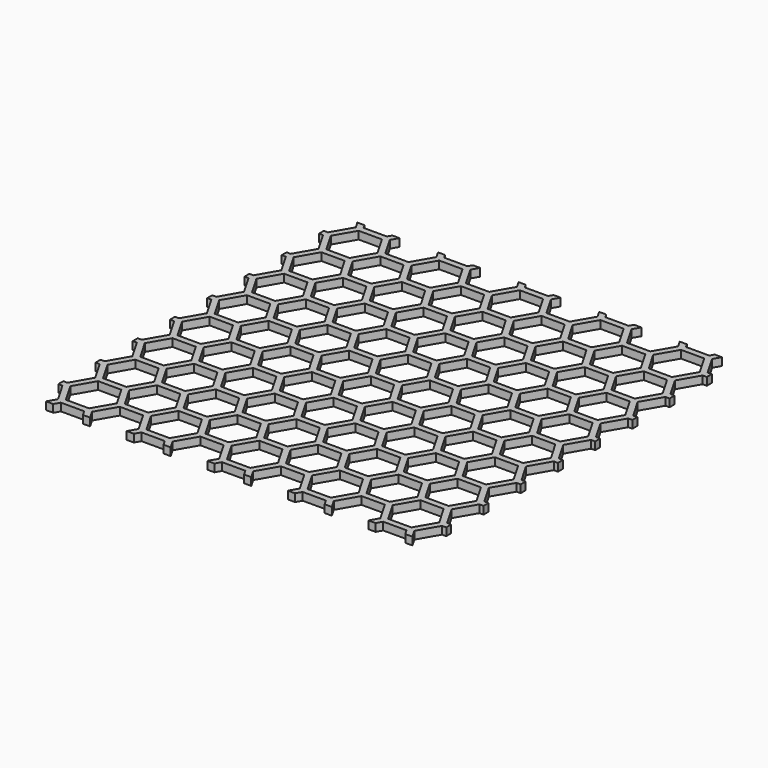
from build123d import *

# Parameters (mm, degrees)
F1_DEPTH = 2.5
F3_DEPTH = 25


with BuildPart() as f1:
    # F0 (on Top) → F1 (new body)
    with BuildSketch(Plane.XY):
        with BuildLine():
            ThreePointArc((62.5, 60), (61.767767, 61.767767), (60, 62.5))
            Line((60, 62.5), (-60, 62.5))
            ThreePointArc((-60, 62.5), (-61.767767, 61.767767), (-62.5, 60))
            Line((-62.5, 60), (-62.5, -60))
            ThreePointArc((-62.5, -60), (-61.767767, -61.767767), (-60, -62.5))
            Line((-60, -62.5), (60, -62.5))
            ThreePointArc((60, -62.5), (61.767767, -61.767767), (62.5, -60))
            Line((62.5, -60), (62.5, 60))
        make_face()
    extrude(amount=F1_DEPTH)

    # F2 (on Top) → F3 (cut)
    with BuildSketch(Plane.XY):
        Polygon((-22.214101, -58.71811), (-18.464101, -52.222919), (-22.214101, -45.727729), (-29.714101, -45.727729), (-33.464101, -52.222919), (-29.714101, -58.71811), align=None)
        Polygon((-35.196152, -53.222919), (-42.696152, -53.222919), (-46.446152, -59.71811), (-42.696152, -66.2133), (-35.196152, -66.2133), (-31.446152, -59.71811), align=None)
        Polygon((-16.73205, -53.222919), (-20.48205, -59.71811), (-16.73205, -66.2133), (-9.23205, -66.2133), (-5.48205, -59.71811), (-9.23205, -53.222919), align=None)
        Polygon((7.499999, -52.222919), (3.749999, -45.727729), (-3.750001, -45.727729), (-7.500001, -52.222919), (-3.750001, -58.71811), (3.749999, -58.71811), align=None)
        Polygon((9.23205, -66.2133), (16.73205, -66.2133), (20.48205, -59.71811), (16.73205, -53.222919), (9.23205, -53.222919), (5.48205, -59.71811), align=None)
        Polygon((-68.660252, -66.2133), (-61.160252, -66.2133), (-57.410252, -59.71811), (-61.160252, -53.222919), (-68.660252, -53.222919), (-72.410252, -59.71811), align=None)
        Polygon((-59.428201, -52.222919), (-55.678201, -58.71811), (-48.178201, -58.71811), (-44.428201, -52.222919), (-48.178201, -45.727729), (-55.678201, -45.727729), align=None)
        Polygon((-22.214101, -30.737349), (-29.714101, -30.737349), (-33.464101, -37.232539), (-29.714101, -43.72773), (-22.214101, -43.72773), (-18.464101, -37.232539), align=None)
        Polygon((-42.696152, -38.232539), (-46.446152, -44.72773), (-42.696152, -51.22292), (-35.196152, -51.22292), (-31.446152, -44.72773), (-35.196152, -38.232539), align=None)
        Polygon((16.73205, -38.232539), (9.23205, -38.232539), (5.48205, -44.72773), (9.23205, -51.22292), (16.73205, -51.22292), (20.48205, -44.72773), align=None)
        Polygon((-9.23205, -38.232539), (-16.73205, -38.232539), (-20.48205, -44.72773), (-16.73205, -51.22292), (-9.23205, -51.22292), (-5.48205, -44.72773), align=None)
        Polygon((3.749999, -43.72773), (7.499999, -37.232539), (3.749999, -30.737349), (-3.750001, -30.737349), (-7.500001, -37.232539), (-3.750001, -43.72773), align=None)
        Polygon((-55.678201, -43.72773), (-48.178201, -43.72773), (-44.428201, -37.232539), (-48.178201, -30.737349), (-55.678201, -30.737349), (-59.428201, -37.232539), align=None)
        Polygon((-61.160252, -51.22292), (-57.410252, -44.72773), (-61.160252, -38.232539), (-68.660252, -38.232539), (-72.410252, -44.72773), (-68.660252, -51.22292), align=None)
        Polygon((-22.214101, -15.746969), (-29.714101, -15.746969), (-33.464101, -22.242159), (-29.714101, -28.73735), (-22.214101, -28.73735), (-18.464101, -22.242159), align=None)
        Polygon((-42.696152, -23.242159), (-46.446152, -29.73735), (-42.696152, -36.23254), (-35.196152, -36.23254), (-31.446152, -29.73735), (-35.196152, -23.242159), align=None)
        Polygon((16.73205, -23.242159), (9.23205, -23.242159), (5.48205, -29.73735), (9.23205, -36.23254), (16.73205, -36.23254), (20.48205, -29.73735), align=None)
        Polygon((-9.23205, -23.242159), (-16.73205, -23.242159), (-20.48205, -29.73735), (-16.73205, -36.23254), (-9.23205, -36.23254), (-5.48205, -29.73735), align=None)
        Polygon((3.749999, -28.73735), (7.499999, -22.242159), (3.749999, -15.746969), (-3.750001, -15.746969), (-7.500001, -22.242159), (-3.750001, -28.73735), align=None)
        Polygon((-55.678201, -28.73735), (-48.178201, -28.73735), (-44.428201, -22.242159), (-48.178201, -15.746969), (-55.678201, -15.746969), (-59.428201, -22.242159), align=None)
        Polygon((-61.160252, -36.23254), (-57.410252, -29.73735), (-61.160252, -23.242159), (-68.660252, -23.242159), (-72.410252, -29.73735), (-68.660252, -36.23254), align=None)
        Polygon((-22.214101, -0.756589), (-29.714101, -0.756589), (-33.464101, -7.251779), (-29.714101, -13.74697), (-22.214101, -13.74697), (-18.464101, -7.251779), align=None)
        Polygon((-42.696152, -8.251779), (-46.446152, -14.74697), (-42.696152, -21.24216), (-35.196152, -21.24216), (-31.446152, -14.74697), (-35.196152, -8.251779), align=None)
        Polygon((16.73205, -8.251779), (9.23205, -8.251779), (5.48205, -14.74697), (9.23205, -21.24216), (16.73205, -21.24216), (20.48205, -14.74697), align=None)
        Polygon((-9.23205, -8.251779), (-16.73205, -8.251779), (-20.48205, -14.74697), (-16.73205, -21.24216), (-9.23205, -21.24216), (-5.48205, -14.74697), align=None)
        Polygon((3.749999, -13.74697), (7.499999, -7.251779), (3.749999, -0.756589), (-3.750001, -0.756589), (-7.500001, -7.251779), (-3.750001, -13.74697), align=None)
        Polygon((-55.678201, -13.74697), (-48.178201, -13.74697), (-44.428201, -7.251779), (-48.178201, -0.756589), (-55.678201, -0.756589), (-59.428201, -7.251779), align=None)
        Polygon((-61.160252, -21.24216), (-57.410252, -14.74697), (-61.160252, -8.251779), (-68.660252, -8.251779), (-72.410252, -14.74697), (-68.660252, -21.24216), align=None)
        Polygon((-22.214101, 14.233791), (-29.714101, 14.233791), (-33.464101, 7.738601), (-29.714101, 1.24341), (-22.214101, 1.24341), (-18.464101, 7.738601), align=None)
        Polygon((-42.696152, 6.738601), (-46.446152, 0.24341), (-42.696152, -6.25178), (-35.196152, -6.25178), (-31.446152, 0.24341), (-35.196152, 6.738601), align=None)
        Polygon((16.73205, 6.738601), (9.23205, 6.738601), (5.48205, 0.24341), (9.23205, -6.25178), (16.73205, -6.25178), (20.48205, 0.24341), align=None)
        Polygon((-9.23205, 6.738601), (-16.73205, 6.738601), (-20.48205, 0.24341), (-16.73205, -6.25178), (-9.23205, -6.25178), (-5.48205, 0.24341), align=None)
        Polygon((3.749999, 1.24341), (7.499999, 7.738601), (3.749999, 14.233791), (-3.750001, 14.233791), (-7.500001, 7.738601), (-3.750001, 1.24341), align=None)
        Polygon((-55.678201, 1.24341), (-48.178201, 1.24341), (-44.428201, 7.738601), (-48.178201, 14.233791), (-55.678201, 14.233791), (-59.428201, 7.738601), align=None)
        Polygon((-61.160252, -6.25178), (-57.410252, 0.24341), (-61.160252, 6.738601), (-68.660252, 6.738601), (-72.410252, 0.24341), (-68.660252, -6.25178), align=None)
        Polygon((-22.214101, 29.224171), (-29.714101, 29.224171), (-33.464101, 22.728981), (-29.714101, 16.23379), (-22.214101, 16.23379), (-18.464101, 22.728981), align=None)
        Polygon((-42.696152, 21.728981), (-46.446152, 15.23379), (-42.696152, 8.7386), (-35.196152, 8.7386), (-31.446152, 15.23379), (-35.196152, 21.728981), align=None)
        Polygon((16.73205, 21.728981), (9.23205, 21.728981), (5.48205, 15.23379), (9.23205, 8.7386), (16.73205, 8.7386), (20.48205, 15.23379), align=None)
        Polygon((-9.23205, 21.728981), (-16.73205, 21.728981), (-20.48205, 15.23379), (-16.73205, 8.7386), (-9.23205, 8.7386), (-5.48205, 15.23379), align=None)
        Polygon((3.749999, 16.23379), (7.499999, 22.728981), (3.749999, 29.224171), (-3.750001, 29.224171), (-7.500001, 22.728981), (-3.750001, 16.23379), align=None)
        Polygon((-55.678201, 16.23379), (-48.178201, 16.23379), (-44.428201, 22.728981), (-48.178201, 29.224171), (-55.678201, 29.224171), (-59.428201, 22.728981), align=None)
        Polygon((-61.160252, 8.7386), (-57.410252, 15.23379), (-61.160252, 21.728981), (-68.660252, 21.728981), (-72.410252, 15.23379), (-68.660252, 8.7386), align=None)
        Polygon((-22.214101, 44.214551), (-29.714101, 44.214551), (-33.464101, 37.719361), (-29.714101, 31.22417), (-22.214101, 31.22417), (-18.464101, 37.719361), align=None)
        Polygon((-42.696152, 36.719361), (-46.446152, 30.22417), (-42.696152, 23.72898), (-35.196152, 23.72898), (-31.446152, 30.22417), (-35.196152, 36.719361), align=None)
        Polygon((16.73205, 36.719361), (9.23205, 36.719361), (5.48205, 30.22417), (9.23205, 23.72898), (16.73205, 23.72898), (20.48205, 30.22417), align=None)
        Polygon((-9.23205, 36.719361), (-16.73205, 36.719361), (-20.48205, 30.22417), (-16.73205, 23.72898), (-9.23205, 23.72898), (-5.48205, 30.22417), align=None)
        Polygon((3.749999, 31.22417), (7.499999, 37.719361), (3.749999, 44.214551), (-3.750001, 44.214551), (-7.500001, 37.719361), (-3.750001, 31.22417), align=None)
        Polygon((-55.678201, 31.22417), (-48.178201, 31.22417), (-44.428201, 37.719361), (-48.178201, 44.214551), (-55.678201, 44.214551), (-59.428201, 37.719361), align=None)
        Polygon((-61.160252, 23.72898), (-57.410252, 30.22417), (-61.160252, 36.719361), (-68.660252, 36.719361), (-72.410252, 30.22417), (-68.660252, 23.72898), align=None)
        Polygon((-22.214101, 59.204931), (-29.714101, 59.204931), (-33.464101, 52.709741), (-29.714101, 46.21455), (-22.214101, 46.21455), (-18.464101, 52.709741), align=None)
        Polygon((-42.696152, 51.709741), (-46.446152, 45.21455), (-42.696152, 38.71936), (-35.196152, 38.71936), (-31.446152, 45.21455), (-35.196152, 51.709741), align=None)
        Polygon((16.73205, 51.709741), (9.23205, 51.709741), (5.48205, 45.21455), (9.23205, 38.71936), (16.73205, 38.71936), (20.48205, 45.21455), align=None)
        Polygon((-9.23205, 51.709741), (-16.73205, 51.709741), (-20.48205, 45.21455), (-16.73205, 38.71936), (-9.23205, 38.71936), (-5.48205, 45.21455), align=None)
        Polygon((3.749999, 46.21455), (7.499999, 52.709741), (3.749999, 59.204931), (-3.750001, 59.204931), (-7.500001, 52.709741), (-3.750001, 46.21455), align=None)
        Polygon((-55.678201, 46.21455), (-48.178201, 46.21455), (-44.428201, 52.709741), (-48.178201, 59.204931), (-55.678201, 59.204931), (-59.428201, 52.709741), align=None)
        Polygon((-61.160252, 38.71936), (-57.410252, 45.21455), (-61.160252, 51.709741), (-68.660252, 51.709741), (-72.410252, 45.21455), (-68.660252, 38.71936), align=None)
        Polygon((-22.214101, 74.195311), (-29.714101, 74.195311), (-33.464101, 67.700121), (-29.714101, 61.20493), (-22.214101, 61.20493), (-18.464101, 67.700121), align=None)
        Polygon((-42.696152, 66.700121), (-46.446152, 60.20493), (-42.696152, 53.70974), (-35.196152, 53.70974), (-31.446152, 60.20493), (-35.196152, 66.700121), align=None)
        Polygon((16.73205, 66.700121), (9.23205, 66.700121), (5.48205, 60.20493), (9.23205, 53.70974), (16.73205, 53.70974), (20.48205, 60.20493), align=None)
        Polygon((-9.23205, 66.700121), (-16.73205, 66.700121), (-20.48205, 60.20493), (-16.73205, 53.70974), (-9.23205, 53.70974), (-5.48205, 60.20493), align=None)
        Polygon((3.749999, 61.20493), (7.499999, 67.700121), (3.749999, 74.195311), (-3.750001, 74.195311), (-7.500001, 67.700121), (-3.750001, 61.20493), align=None)
        Polygon((-55.678201, 61.20493), (-48.178201, 61.20493), (-44.428201, 67.700121), (-48.178201, 74.195311), (-55.678201, 74.195311), (-59.428201, 67.700121), align=None)
        Polygon((-61.160252, 53.70974), (-57.410252, 60.20493), (-61.160252, 66.700121), (-68.660252, 66.700121), (-72.410252, 60.20493), (-68.660252, 53.70974), align=None)
        Polygon((33.464099, -52.222919), (29.714099, -45.727729), (22.214099, -45.727729), (18.464099, -52.222919), (22.214099, -58.71811), (29.714099, -58.71811), align=None)
        Polygon((35.19615, -66.2133), (42.69615, -66.2133), (46.44615, -59.71811), (42.69615, -53.222919), (35.19615, -53.222919), (31.44615, -59.71811), align=None)
        Polygon((59.428199, -52.222919), (55.678199, -45.727729), (48.178199, -45.727729), (44.428199, -52.222919), (48.178199, -58.71811), (55.678199, -58.71811), align=None)
        Polygon((61.16025, -66.2133), (68.66025, -66.2133), (72.41025, -59.71811), (68.66025, -53.222919), (61.16025, -53.222919), (57.41025, -59.71811), align=None)
        Polygon((57.41025, -44.72773), (61.16025, -51.22292), (68.66025, -51.22292), (72.41025, -44.72773), (68.66025, -38.232539), (61.16025, -38.232539), align=None)
        Polygon((29.714099, -30.737349), (22.214099, -30.737349), (18.464099, -37.232539), (22.214099, -43.72773), (29.714099, -43.72773), (33.464099, -37.232539), align=None)
        Polygon((35.19615, -51.22292), (42.69615, -51.22292), (46.44615, -44.72773), (42.69615, -38.232539), (35.19615, -38.232539), (31.44615, -44.72773), align=None)
        Polygon((48.178199, -43.72773), (55.678199, -43.72773), (59.428199, -37.232539), (55.678199, -30.737349), (48.178199, -30.737349), (44.428199, -37.232539), align=None)
        Polygon((57.41025, -29.73735), (61.16025, -36.23254), (68.66025, -36.23254), (72.41025, -29.73735), (68.66025, -23.242159), (61.16025, -23.242159), align=None)
        Polygon((29.714099, -15.746969), (22.214099, -15.746969), (18.464099, -22.242159), (22.214099, -28.73735), (29.714099, -28.73735), (33.464099, -22.242159), align=None)
        Polygon((35.19615, -36.23254), (42.69615, -36.23254), (46.44615, -29.73735), (42.69615, -23.242159), (35.19615, -23.242159), (31.44615, -29.73735), align=None)
        Polygon((48.178199, -28.73735), (55.678199, -28.73735), (59.428199, -22.242159), (55.678199, -15.746969), (48.178199, -15.746969), (44.428199, -22.242159), align=None)
        Polygon((57.41025, -14.74697), (61.16025, -21.24216), (68.66025, -21.24216), (72.41025, -14.74697), (68.66025, -8.251779), (61.16025, -8.251779), align=None)
        Polygon((29.714099, -0.756589), (22.214099, -0.756589), (18.464099, -7.251779), (22.214099, -13.74697), (29.714099, -13.74697), (33.464099, -7.251779), align=None)
        Polygon((35.19615, -21.24216), (42.69615, -21.24216), (46.44615, -14.74697), (42.69615, -8.251779), (35.19615, -8.251779), (31.44615, -14.74697), align=None)
        Polygon((48.178199, -13.74697), (55.678199, -13.74697), (59.428199, -7.251779), (55.678199, -0.756589), (48.178199, -0.756589), (44.428199, -7.251779), align=None)
        Polygon((57.41025, 0.24341), (61.16025, -6.25178), (68.66025, -6.25178), (72.41025, 0.24341), (68.66025, 6.738601), (61.16025, 6.738601), align=None)
        Polygon((29.714099, 14.233791), (22.214099, 14.233791), (18.464099, 7.738601), (22.214099, 1.24341), (29.714099, 1.24341), (33.464099, 7.738601), align=None)
        Polygon((35.19615, -6.25178), (42.69615, -6.25178), (46.44615, 0.24341), (42.69615, 6.738601), (35.19615, 6.738601), (31.44615, 0.24341), align=None)
        Polygon((48.178199, 1.24341), (55.678199, 1.24341), (59.428199, 7.738601), (55.678199, 14.233791), (48.178199, 14.233791), (44.428199, 7.738601), align=None)
        Polygon((57.41025, 15.23379), (61.16025, 8.7386), (68.66025, 8.7386), (72.41025, 15.23379), (68.66025, 21.728981), (61.16025, 21.728981), align=None)
        Polygon((29.714099, 29.224171), (22.214099, 29.224171), (18.464099, 22.728981), (22.214099, 16.23379), (29.714099, 16.23379), (33.464099, 22.728981), align=None)
        Polygon((35.19615, 8.7386), (42.69615, 8.7386), (46.44615, 15.23379), (42.69615, 21.728981), (35.19615, 21.728981), (31.44615, 15.23379), align=None)
        Polygon((48.178199, 16.23379), (55.678199, 16.23379), (59.428199, 22.728981), (55.678199, 29.224171), (48.178199, 29.224171), (44.428199, 22.728981), align=None)
        Polygon((57.41025, 30.22417), (61.16025, 23.72898), (68.66025, 23.72898), (72.41025, 30.22417), (68.66025, 36.719361), (61.16025, 36.719361), align=None)
        Polygon((29.714099, 44.214551), (22.214099, 44.214551), (18.464099, 37.719361), (22.214099, 31.22417), (29.714099, 31.22417), (33.464099, 37.719361), align=None)
        Polygon((35.19615, 23.72898), (42.69615, 23.72898), (46.44615, 30.22417), (42.69615, 36.719361), (35.19615, 36.719361), (31.44615, 30.22417), align=None)
        Polygon((48.178199, 31.22417), (55.678199, 31.22417), (59.428199, 37.719361), (55.678199, 44.214551), (48.178199, 44.214551), (44.428199, 37.719361), align=None)
        Polygon((57.41025, 45.21455), (61.16025, 38.71936), (68.66025, 38.71936), (72.41025, 45.21455), (68.66025, 51.709741), (61.16025, 51.709741), align=None)
        Polygon((29.714099, 59.204931), (22.214099, 59.204931), (18.464099, 52.709741), (22.214099, 46.21455), (29.714099, 46.21455), (33.464099, 52.709741), align=None)
        Polygon((35.19615, 38.71936), (42.69615, 38.71936), (46.44615, 45.21455), (42.69615, 51.709741), (35.19615, 51.709741), (31.44615, 45.21455), align=None)
        Polygon((48.178199, 46.21455), (55.678199, 46.21455), (59.428199, 52.709741), (55.678199, 59.204931), (48.178199, 59.204931), (44.428199, 52.709741), align=None)
        Polygon((57.41025, 60.20493), (61.16025, 53.70974), (68.66025, 53.70974), (72.41025, 60.20493), (68.66025, 66.700121), (61.16025, 66.700121), align=None)
        Polygon((29.714099, 74.195311), (22.214099, 74.195311), (18.464099, 67.700121), (22.214099, 61.20493), (29.714099, 61.20493), (33.464099, 67.700121), align=None)
        Polygon((35.19615, 53.70974), (42.69615, 53.70974), (46.44615, 60.20493), (42.69615, 66.700121), (35.19615, 66.700121), (31.44615, 60.20493), align=None)
        Polygon((48.178199, 61.20493), (55.678199, 61.20493), (59.428199, 67.700121), (55.678199, 74.195311), (48.178199, 74.195311), (44.428199, 67.700121), align=None)
        Polygon((-3.750001, -73.70849), (3.749999, -73.70849), (7.499999, -67.213299), (3.749999, -60.718109), (-3.750001, -60.718109), (-7.500001, -67.213299), align=None)
        Polygon((29.714099, -60.718109), (22.214099, -60.718109), (18.464099, -67.213299), (22.214099, -73.70849), (29.714099, -73.70849), (33.464099, -67.213299), align=None)
        Polygon((48.178199, -73.70849), (55.678199, -73.70849), (59.428199, -67.213299), (55.678199, -60.718109), (48.178199, -60.718109), (44.428199, -67.213299), align=None)
        Polygon((-44.428201, -67.213299), (-48.178201, -60.718109), (-55.678201, -60.718109), (-59.428201, -67.213299), (-55.678201, -73.70849), (-48.178201, -73.70849), align=None)
        Polygon((-29.714101, -73.70849), (-22.214101, -73.70849), (-18.464101, -67.213299), (-22.214101, -60.718109), (-29.714101, -60.718109), (-33.464101, -67.213299), align=None)
    extrude(amount=F3_DEPTH, mode=Mode.SUBTRACT)


solid = f1.part
